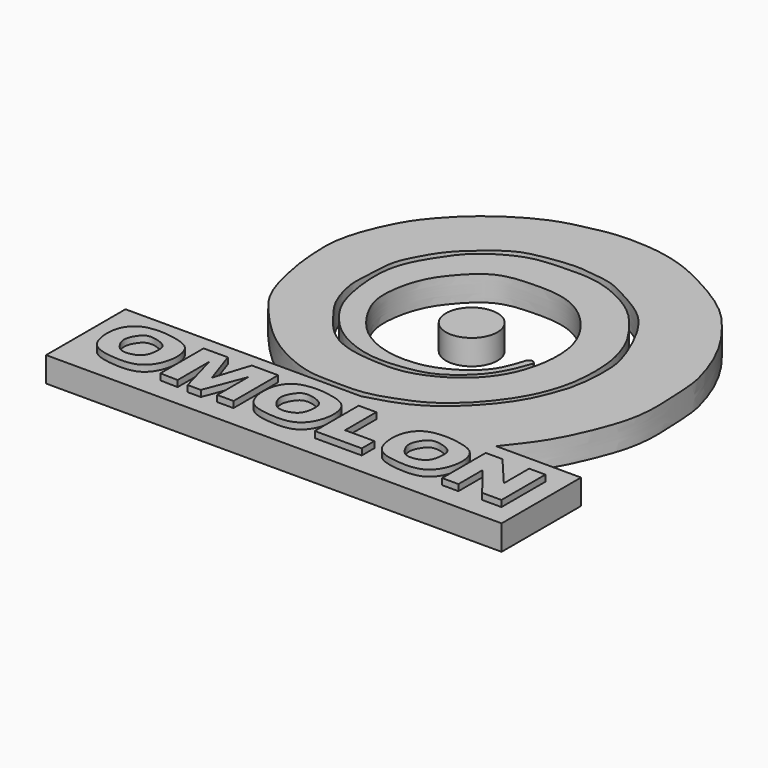
from build123d import *

# Parameters (mm, degrees)
F1_DEPTH = 2.032
F0_R     = 2.0876151609
F2_DEPTH = 2.54


with BuildPart() as f1:
    # F0 (on Top) → F1 (new body)
    with BuildSketch(Plane.XY):
        Polygon((34.0746045113, 8.79177358), (14.9905327708, 8.79177358), (14.9905327708, 0.7520093932), (51.8888160586, 0.7520093932), (51.8888160586, 8.79177358), (45.0128801167, 8.79177358), align=None)
        with BuildLine():
            add(Edge.make_bspline(
                [(19.6084268391, 7.0183547214), (19.3198478424, 7.0433885697), (18.8615672492, 7.0378568041), (17.7836346431, 6.8829167066), (16.854687704, 6.0158723002), (16.6392427793, 4.4722041091), (17.0405543321, 3.1333045298), (17.7741349259, 2.6761695979), (18.6812280948, 2.4434906692), (20.5787577054, 2.3112767051), (21.7642940523, 3.1091383997), (22.3328964648, 4.7194321226), (22.0534589601, 6.288649991), (20.9931958117, 6.8262975787), (19.9965364008, 6.9846867274), (19.6084268391, 7.0183547214)],
                knots=[0, 0, 0, 0, 0.0604966371, 0.1305483015, 0.2059103502, 0.2914695502, 0.3714586197, 0.4322908025, 0.4995096935, 0.5935554306, 0.6736474911, 0.7624055483, 0.8458229916, 0.9186381422, 1, 1, 1, 1], degree=3))
        make_face(mode=Mode.SUBTRACT)
        Polygon((24.2301523685, 2.5211828761), (22.8068660945, 2.5567652192), (22.8068660945, 6.9333692081), (24.7638840228, 6.9333692081), (25.7246010005, 4.1223792359), (26.6497377306, 7.0045334287), (28.7846662104, 7.0045334287), (28.7846662104, 2.4856007658), (27.4681262672, 2.4856007658), (27.4681262672, 5.6168297306), (26.2227524072, 2.3788546678), (25.155287236, 2.3788546678), (24.2301523685, 5.7235760614), align=None, mode=Mode.SUBTRACT)
        with BuildLine():
            add(Edge.make_bspline(
                [(32.2784725577, 7.039512042), (31.9898935609, 7.0645458903), (31.5316129677, 7.0590141247), (30.4536803616, 6.9040740271), (29.5247334225, 6.0370296207), (29.3092884978, 4.4933614297), (29.7106000507, 3.1544618503), (30.4441806444, 2.6973269185), (31.3512738134, 2.4646479898), (33.2488034239, 2.3324340257), (34.4343397708, 3.1302957203), (35.0029421834, 4.7405894432), (34.7235046786, 6.3098073116), (33.6632415302, 6.8474548993), (32.6665821193, 7.005844048), (32.2784725577, 7.039512042)],
                knots=[0, 0, 0, 0, 0.0604966371, 0.1305483015, 0.2059103502, 0.2914695502, 0.3714586197, 0.4322908025, 0.4995096935, 0.5935554306, 0.6736474911, 0.7624055483, 0.8458229916, 0.9186381422, 1, 1, 1, 1], degree=3))
        make_face(mode=Mode.SUBTRACT)
        Polygon((35.3673622012, 2.4856007658), (35.3673622012, 6.9333692081), (36.7946477015, 6.9333692081), (36.7946477015, 3.7665585987), (39.1746535897, 3.7665585987), (39.1746535897, 2.4856007658), align=None, mode=Mode.SUBTRACT)
        with BuildLine():
            add(Edge.make_bspline(
                [(42.6534619182, 7.0606693625), (42.3648829215, 7.0857032109), (41.9066023283, 7.0801714453), (40.8286697222, 6.9252313477), (39.8997227831, 6.0581869413), (39.6842778584, 4.5145187503), (40.0855894112, 3.1756191709), (40.819170005, 2.7184842391), (41.7262631739, 2.4858053104), (43.6237927845, 2.3535913463), (44.8093291314, 3.1514530408), (45.3779315439, 4.7617467637), (45.0984940392, 6.3309646321), (44.0382308908, 6.8686122199), (43.0415714799, 7.0270013686), (42.6534619182, 7.0606693625)],
                knots=[0, 0, 0, 0, 0.0604966371, 0.1305483015, 0.2059103502, 0.2914695502, 0.3714586197, 0.4322908025, 0.4995096935, 0.5935554306, 0.6736474911, 0.7624055483, 0.8458229916, 0.9186381422, 1, 1, 1, 1], degree=3))
        make_face(mode=Mode.SUBTRACT)
        Polygon((45.68618536, 2.4856007658), (45.68618536, 6.8977870978), (47.0401807185, 6.8977870978), (49.1751073356, 4.3714549392), (49.1751073356, 6.9333692081), (50.4897758365, 6.9333692081), (50.4897758365, 2.4856007658), (48.9241629839, 2.4856007658), (47.0027253032, 4.9407687038), (47.0027253032, 2.4856007658), align=None, mode=Mode.SUBTRACT)
        with BuildLine():
            add(Edge.make_bspline(
                [(34.0746045113, 8.79177358), (35.2602548226, 9.1166188789), (37.6676787894, 9.7762065757), (40.6818597011, 12.3892771441), (42.7022453979, 15.0799334509), (43.3411121984, 16.9669060188), (43.6492934823, 17.8771577775)],
                knots=[0, 0, 0, 0, 0.2584715554, 0.5248179933, 0.7707781953, 1, 1, 1, 1], degree=3))
            Line((34.0746045113, 8.79177358), (45.0128801167, 8.79177358))
            add(Edge.make_bspline(
                [(39.7767201066, 19.1029440612), (39.658885289, 18.7510637992), (39.3970280362, 17.9691013828), (38.5949358054, 16.378636583), (37.2876494884, 15.0412275398), (35.6701540094, 13.8926498174), (33.5597698871, 13.510831415), (30.9011657714, 13.3131692596), (27.8379671632, 14.5356966691), (26.1582363279, 16.3535863032), (24.9773323064, 18.1415061122), (24.3422753852, 21.5041324751), (24.5582723206, 24.4174123314), (26.0823593847, 26.8588941545), (27.2511239289, 28.4774338471), (29.2085211998, 29.7472935515), (30.8216391571, 30.3898214557), (32.8513036189, 30.5207886471), (35.1292974774, 30.5892589714), (37.166267045, 30.0919119235), (39.2399082078, 29.0084689802), (40.6435478055, 27.8150873854), (42.2858337892, 25.6477348739), (42.9091462136, 24.2561427343), (43.4268323983, 22.5934259163), (43.5266080214, 20.7123005751), (43.4677546813, 19.602658026), (43.3103981966, 18.1224526855), (42.7361874542, 16.4393655289), (42.2748136945, 15.4828184159), (41.6109514275, 14.3529648971), (40.5514547841, 13.0100267526), (39.6496458358, 12.0630785108), (38.0005450166, 10.7249792218), (36.389977698, 10.0819780432), (33.9976907088, 9.1434901325), (31.1895304271, 9.2722232192), (29.1611510829, 9.2424437071), (25.9722474231, 10.6627296243), (23.853056262, 12.4116125271), (22.4253277477, 13.9629110309), (21.0224296255, 15.6408118022), (20.2281366081, 17.6113578535), (19.6795275114, 20.2424327422), (19.5463626881, 21.5573837373), (19.2849338862, 24.5539662968), (20.5209118629, 27.7855609999), (21.625703436, 29.8219241169), (23.260572444, 31.6543050228), (24.6669135364, 32.9194275142), (26.6874753936, 34.3176999317), (28.9582404269, 35.4075290194), (31.1622759944, 35.841499861), (32.7491162069, 36.2121101596), (35.7304000621, 36.225705864), (38.6805591978, 35.5768249884), (41.2481695862, 34.2648411457), (43.2491922081, 33.0995059854), (44.8911137266, 31.7871312274), (46.0754301738, 30.3449466029), (47.2644865276, 28.7646065322), (48.313832996, 26.7828072585), (48.9743016817, 24.9034438697), (49.3664494815, 23.5024799732), (49.4697645477, 21.5937559016), (49.6636789852, 18.531082105), (49.1302497825, 16.1153646239), (48.2853039645, 13.9552686695), (47.142550023, 11.4795906696), (45.7517212486, 9.7242513387), (45.0128801167, 8.79177358)],
                knots=[0, 0, 0, 0, 0.0108098313, 0.0240220402, 0.0377155578, 0.0515585702, 0.0659816823, 0.0822616172, 0.1001551469, 0.1156164907, 0.1300694418, 0.1483066274, 0.1654385676, 0.1820248349, 0.1962074052, 0.2111687684, 0.2242837872, 0.2383949031, 0.253438984, 0.2679241454, 0.2829164405, 0.296692599, 0.3129267397, 0.3253295731, 0.3384290812, 0.3520389484, 0.3625400093, 0.3746807702, 0.3879692158, 0.3982279698, 0.40958381, 0.4225328066, 0.4341422909, 0.4483833668, 0.4616443406, 0.4775325855, 0.4940888949, 0.5083466351, 0.5267164142, 0.5433944681, 0.5577985239, 0.5722986054, 0.5870698631, 0.6031295729, 0.6147486181, 0.6317006101, 0.6503174975, 0.6656144368, 0.6809593089, 0.6947362444, 0.7102661086, 0.726260524, 0.7409680854, 0.7536885122, 0.7706843587, 0.7882382624, 0.8051031205, 0.820304883, 0.8346343582, 0.8481853661, 0.8621954038, 0.8772218681, 0.8912548209, 0.9030766125, 0.9167996079, 0.9343147529, 0.9500370552, 0.9650550716, 0.9814364277, 1, 1, 1, 1], degree=3))
            ThreePointArc((39.7767201066, 19.1029440612), (39.4720267504, 19.3408629695), (39.1673333943, 19.1029440612))
            add(Edge.make_bspline(
                [(43.6492934823, 17.8771577775), (43.7602822127, 18.4099271535), (43.9962349235, 19.5425500604), (44.0311109217, 21.789381602), (43.716885977, 23.3588573067), (42.5058223319, 26.2588729659), (40.8926580155, 28.5876376013), (38.4126305416, 29.9356961859), (36.811070998, 30.8272025873), (35.2288155023, 31.0212207618), (33.535926308, 31.2609731093), (31.2391756268, 30.9282149065), (29.2849938825, 30.5522533401), (27.3329440095, 28.9800257245), (25.8364039472, 27.5745608371), (24.9613650222, 26.0403774164), (24.0477791828, 24.3467125334), (24.09634598, 22.0859382016), (23.8451919603, 20.373826676), (24.6578549362, 17.7709884227), (25.7823984244, 16.357924251), (27.2222465341, 14.3912074539), (29.364417203, 13.2430439146), (32.0362212477, 13.0213678206), (34.3169189093, 13.0100864095), (37.0241213056, 14.2557165289), (38.9399911402, 16.041009877), (40.184031252, 18.456183049), (40.5927789525, 22.3802771541), (38.7464687318, 25.5368038228), (36.035402522, 27.5927987096), (32.6282481353, 27.5847904128), (30.11167326, 27.3266758437), (28.1126665512, 25.2978299091), (26.8431892706, 23.4229210091), (26.2624099862, 20.2269752379), (27.0535972472, 18.1856901148), (28.5879528008, 15.9413830815), (31.0519272336, 14.5110467812), (34.1095026228, 14.3042113063), (36.5394310784, 15.2707988855), (38.4655682156, 16.879865706), (38.9353133997, 18.3679423205), (39.1673333943, 19.1029440612)],
                knots=[0, 0, 0, 0, 0.0205580675, 0.0437047233, 0.0637815459, 0.0912616802, 0.1179983209, 0.1440678128, 0.1652288827, 0.1846059405, 0.2051726959, 0.2289506931, 0.2511357741, 0.2757194513, 0.2982848749, 0.3189331608, 0.3405703081, 0.3637541771, 0.3847108549, 0.4099530863, 0.4313888211, 0.4554541303, 0.4797323968, 0.5051698755, 0.5289003854, 0.5555752825, 0.5807522481, 0.6063624943, 0.6368972357, 0.6664272201, 0.6947373837, 0.723215144, 0.747907112, 0.7734701599, 0.7974562252, 0.8249610919, 0.8480546978, 0.8734781043, 0.8997157287, 0.9267490167, 0.9519729757, 0.9762781391, 1, 1, 1, 1], degree=3))
        make_face()
    extrude(amount=F1_DEPTH)


with BuildPart() as f1b:
    # F0 (on Top) → F1, piece 2 (new body)
    with BuildSketch(Plane.XY):
        with BuildLine():
            add(Edge.make_bspline(
                [(19.6084268391, 6.0451203026), (19.3665709365, 6.0946980459), (18.9015333348, 6.1211911865), (18.4507972649, 5.7102674677), (18.0214020436, 4.8807926914), (18.2269366649, 4.1493876449), (18.7697006254, 3.4105331104), (19.6169064012, 3.3851765954), (20.4711274489, 3.717752911), (20.7306377119, 4.5646190656), (20.7315202304, 5.4622334151), (20.3207211853, 5.8276490438), (19.8617774996, 5.993186263), (19.6084268391, 6.0451203026)],
                knots=[0, 0, 0, 0, 0.0866102103, 0.1661939413, 0.2649794373, 0.3551864495, 0.4516543278, 0.5450563254, 0.6416615247, 0.7384036411, 0.835297155, 0.9092734403, 1, 1, 1, 1], degree=3))
        make_face()
    extrude(amount=F1_DEPTH)


with BuildPart() as f1c:
    # F0 (on Top) → F1, piece 3 (new body)
    with BuildSketch(Plane.XY):
        with BuildLine():
            add(Edge.make_bspline(
                [(32.2784725577, 6.0662776232), (32.036616655, 6.1158553665), (31.5715790533, 6.1423485071), (31.1208429835, 5.7314247882), (30.6914477622, 4.9019500119), (30.8969823835, 4.1705449655), (31.4397463439, 3.431690431), (32.2869521198, 3.4063339159), (33.1411731674, 3.7389102316), (33.4006834304, 4.5857763861), (33.4015659489, 5.4833907357), (32.9907669038, 5.8488063644), (32.5318232181, 6.0143435836), (32.2784725577, 6.0662776232)],
                knots=[0, 0, 0, 0, 0.0866102103, 0.1661939413, 0.2649794373, 0.3551864495, 0.4516543278, 0.5450563254, 0.6416615247, 0.7384036411, 0.835297155, 0.9092734403, 1, 1, 1, 1], degree=3))
        make_face()
    extrude(amount=F1_DEPTH)


with BuildPart() as f1d:
    # F0 (on Top) → F1, piece 4 (new body)
    with BuildSketch(Plane.XY):
        with BuildLine():
            add(Edge.make_bspline(
                [(42.6534619182, 6.0874349438), (42.4116060156, 6.1370126871), (41.9465684139, 6.1635058277), (41.4958323441, 5.7525821088), (41.0664371227, 4.9231073325), (41.271971744, 4.1917022861), (41.8147357045, 3.4528477516), (42.6619414804, 3.4274912365), (43.516162528, 3.7600675522), (43.775672791, 4.6069337067), (43.7765553095, 5.5045480563), (43.3657562644, 5.869963685), (42.9068125787, 6.0355009042), (42.6534619182, 6.0874349438)],
                knots=[0, 0, 0, 0, 0.0866102103, 0.1661939413, 0.2649794373, 0.3551864495, 0.4516543278, 0.5450563254, 0.6416615247, 0.7384036411, 0.835297155, 0.9092734403, 1, 1, 1, 1], degree=3))
        make_face()
    extrude(amount=F1_DEPTH)


with BuildPart() as f1e:
    # F0 (on Top) → F1, piece 5 (new body)
    with BuildSketch(Plane.XY):
        with Locations((33.241584897, 21.0337806493)):
            Circle(F0_R)
    extrude(amount=F1_DEPTH)


with BuildPart() as f2:
    # F0 (on Top) → F2 (new body)
    with BuildSketch(Plane.XY):
        with BuildLine():
            add(Edge.make_bspline(
                [(19.6084268391, 7.0183547214), (19.3198478424, 7.0433885697), (18.8615672492, 7.0378568041), (17.7836346431, 6.8829167066), (16.854687704, 6.0158723002), (16.6392427793, 4.4722041091), (17.0405543321, 3.1333045298), (17.7741349259, 2.6761695979), (18.6812280948, 2.4434906692), (20.5787577054, 2.3112767051), (21.7642940523, 3.1091383997), (22.3328964648, 4.7194321226), (22.0534589601, 6.288649991), (20.9931958117, 6.8262975787), (19.9965364008, 6.9846867274), (19.6084268391, 7.0183547214)],
                knots=[0, 0, 0, 0, 0.0604966371, 0.1305483015, 0.2059103502, 0.2914695502, 0.3714586197, 0.4322908025, 0.4995096935, 0.5935554306, 0.6736474911, 0.7624055483, 0.8458229916, 0.9186381422, 1, 1, 1, 1], degree=3))
        make_face()
        with BuildLine():
            add(Edge.make_bspline(
                [(19.6084268391, 6.0451203026), (19.3665709365, 6.0946980459), (18.9015333348, 6.1211911865), (18.4507972649, 5.7102674677), (18.0214020436, 4.8807926914), (18.2269366649, 4.1493876449), (18.7697006254, 3.4105331104), (19.6169064012, 3.3851765954), (20.4711274489, 3.717752911), (20.7306377119, 4.5646190656), (20.7315202304, 5.4622334151), (20.3207211853, 5.8276490438), (19.8617774996, 5.993186263), (19.6084268391, 6.0451203026)],
                knots=[0, 0, 0, 0, 0.0866102103, 0.1661939413, 0.2649794373, 0.3551864495, 0.4516543278, 0.5450563254, 0.6416615247, 0.7384036411, 0.835297155, 0.9092734403, 1, 1, 1, 1], degree=3))
        make_face(mode=Mode.SUBTRACT)
    extrude(amount=F2_DEPTH)


with BuildPart() as f2b:
    # F0 (on Top) → F2, piece 2 (new body)
    with BuildSketch(Plane.XY):
        Polygon((22.8068660945, 6.9333692081), (22.8068660945, 2.5567652192), (24.2301523685, 2.5211828761), (24.2301523685, 5.7235760614), (25.155287236, 2.3788546678), (26.2227524072, 2.3788546678), (27.4681262672, 5.6168297306), (27.4681262672, 2.4856007658), (28.7846662104, 2.4856007658), (28.7846662104, 7.0045334287), (26.6497377306, 7.0045334287), (25.7246010005, 4.1223792359), (24.7638840228, 6.9333692081), align=None)
    extrude(amount=F2_DEPTH)


with BuildPart() as f2c:
    # F0 (on Top) → F2, piece 3 (new body)
    with BuildSketch(Plane.XY):
        with BuildLine():
            add(Edge.make_bspline(
                [(32.2784725577, 7.039512042), (31.9898935609, 7.0645458903), (31.5316129677, 7.0590141247), (30.4536803616, 6.9040740271), (29.5247334225, 6.0370296207), (29.3092884978, 4.4933614297), (29.7106000507, 3.1544618503), (30.4441806444, 2.6973269185), (31.3512738134, 2.4646479898), (33.2488034239, 2.3324340257), (34.4343397708, 3.1302957203), (35.0029421834, 4.7405894432), (34.7235046786, 6.3098073116), (33.6632415302, 6.8474548993), (32.6665821193, 7.005844048), (32.2784725577, 7.039512042)],
                knots=[0, 0, 0, 0, 0.0604966371, 0.1305483015, 0.2059103502, 0.2914695502, 0.3714586197, 0.4322908025, 0.4995096935, 0.5935554306, 0.6736474911, 0.7624055483, 0.8458229916, 0.9186381422, 1, 1, 1, 1], degree=3))
        make_face()
        with BuildLine():
            add(Edge.make_bspline(
                [(32.2784725577, 6.0662776232), (32.036616655, 6.1158553665), (31.5715790533, 6.1423485071), (31.1208429835, 5.7314247882), (30.6914477622, 4.9019500119), (30.8969823835, 4.1705449655), (31.4397463439, 3.431690431), (32.2869521198, 3.4063339159), (33.1411731674, 3.7389102316), (33.4006834304, 4.5857763861), (33.4015659489, 5.4833907357), (32.9907669038, 5.8488063644), (32.5318232181, 6.0143435836), (32.2784725577, 6.0662776232)],
                knots=[0, 0, 0, 0, 0.0866102103, 0.1661939413, 0.2649794373, 0.3551864495, 0.4516543278, 0.5450563254, 0.6416615247, 0.7384036411, 0.835297155, 0.9092734403, 1, 1, 1, 1], degree=3))
        make_face(mode=Mode.SUBTRACT)
    extrude(amount=F2_DEPTH)


with BuildPart() as f2d:
    # F0 (on Top) → F2, piece 4 (new body)
    with BuildSketch(Plane.XY):
        Polygon((36.7946477015, 6.9333692081), (35.3673622012, 6.9333692081), (35.3673622012, 2.4856007658), (39.1746535897, 2.4856007658), (39.1746535897, 3.7665585987), (36.7946477015, 3.7665585987), align=None)
    extrude(amount=F2_DEPTH)


with BuildPart() as f2e:
    # F0 (on Top) → F2, piece 5 (new body)
    with BuildSketch(Plane.XY):
        with BuildLine():
            add(Edge.make_bspline(
                [(42.6534619182, 7.0606693625), (42.3648829215, 7.0857032109), (41.9066023283, 7.0801714453), (40.8286697222, 6.9252313477), (39.8997227831, 6.0581869413), (39.6842778584, 4.5145187503), (40.0855894112, 3.1756191709), (40.819170005, 2.7184842391), (41.7262631739, 2.4858053104), (43.6237927845, 2.3535913463), (44.8093291314, 3.1514530408), (45.3779315439, 4.7617467637), (45.0984940392, 6.3309646321), (44.0382308908, 6.8686122199), (43.0415714799, 7.0270013686), (42.6534619182, 7.0606693625)],
                knots=[0, 0, 0, 0, 0.0604966371, 0.1305483015, 0.2059103502, 0.2914695502, 0.3714586197, 0.4322908025, 0.4995096935, 0.5935554306, 0.6736474911, 0.7624055483, 0.8458229916, 0.9186381422, 1, 1, 1, 1], degree=3))
        make_face()
        with BuildLine():
            add(Edge.make_bspline(
                [(42.6534619182, 6.0874349438), (42.4116060156, 6.1370126871), (41.9465684139, 6.1635058277), (41.4958323441, 5.7525821088), (41.0664371227, 4.9231073325), (41.271971744, 4.1917022861), (41.8147357045, 3.4528477516), (42.6619414804, 3.4274912365), (43.516162528, 3.7600675522), (43.775672791, 4.6069337067), (43.7765553095, 5.5045480563), (43.3657562644, 5.869963685), (42.9068125787, 6.0355009042), (42.6534619182, 6.0874349438)],
                knots=[0, 0, 0, 0, 0.0866102103, 0.1661939413, 0.2649794373, 0.3551864495, 0.4516543278, 0.5450563254, 0.6416615247, 0.7384036411, 0.835297155, 0.9092734403, 1, 1, 1, 1], degree=3))
        make_face(mode=Mode.SUBTRACT)
    extrude(amount=F2_DEPTH)


with BuildPart() as f2f:
    # F0 (on Top) → F2, piece 6 (new body)
    with BuildSketch(Plane.XY):
        Polygon((47.0401807185, 6.8977870978), (45.68618536, 6.8977870978), (45.68618536, 2.4856007658), (47.0027253032, 2.4856007658), (47.0027253032, 4.9407687038), (48.9241629839, 2.4856007658), (50.4897758365, 2.4856007658), (50.4897758365, 6.9333692081), (49.1751073356, 6.9333692081), (49.1751073356, 4.3714549392), align=None)
    extrude(amount=F2_DEPTH)


solid = Compound([f1.part, f1b.part, f1c.part, f1d.part, f1e.part, f2.part, f2b.part, f2c.part, f2d.part, f2e.part, f2f.part])
